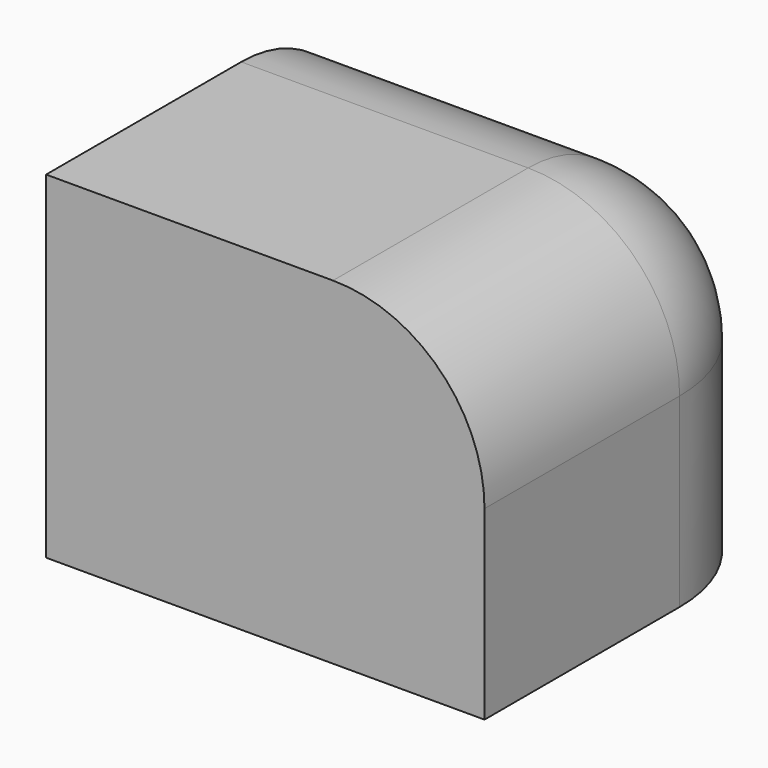
from build123d import *

# Parameters (mm, degrees)
F0_W     = 73.782653
F0_H     = 66.537239
F1_DEPTH = 56.762496
F2_R     = 25.49506
F3_T     = -2.54


with BuildPart() as f1:
    # F0 (on Top) → F1 (new body)
    with BuildSketch(Plane.XY):
        with Locations((-2.154655, 33.268619)):
            Rectangle(F0_W, F0_H)
    extrude(amount=F1_DEPTH)

    # F2
    f2_edges = [f1.edges().sort_by_distance(p)[0] for p in [
        (-2.154656, 66.537239, 56.762496),
        (34.736671, 66.537239, 28.381248),
        (34.736671, 33.268619, 56.762496),
    ]]
    fillet(f2_edges, radius=F2_R)

    # F3
    f3_openings = [f1.faces().sort_by_distance(p)[0] for p in [
        (-3.066985, 32.462235, 0),
    ]]
    offset(amount=F3_T, openings=f3_openings)


solid = f1.part
